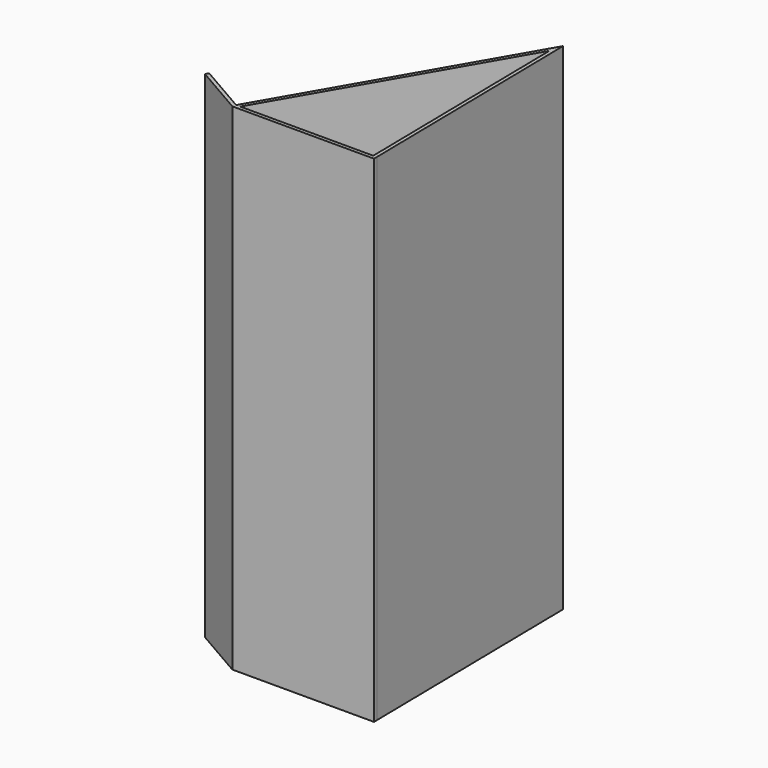
from build123d import *

# Parameters (mm, degrees)
F1_DEPTH = 140


with BuildPart() as f1:
    # F0 (on Top) → F1 (new body)
    with BuildSketch(Plane.XY):
        Polygon((-0.015275, 1), (0, 0), (0, 1), align=None)
        Polygon((-39.154701, 0), (0, 0), (-0.015275, 1), (-1.038992, 68.018344), (-39.732051, 1), (-53.865166, 9.159758), (-54.365166, 8.293733), (-40, 0), align=None)
        Polygon((-1.015392, 1), (-38.57735, 1), (-1.983567, 64.382292), align=None, mode=Mode.SUBTRACT)
    extrude(amount=F1_DEPTH)


solid = f1.part
